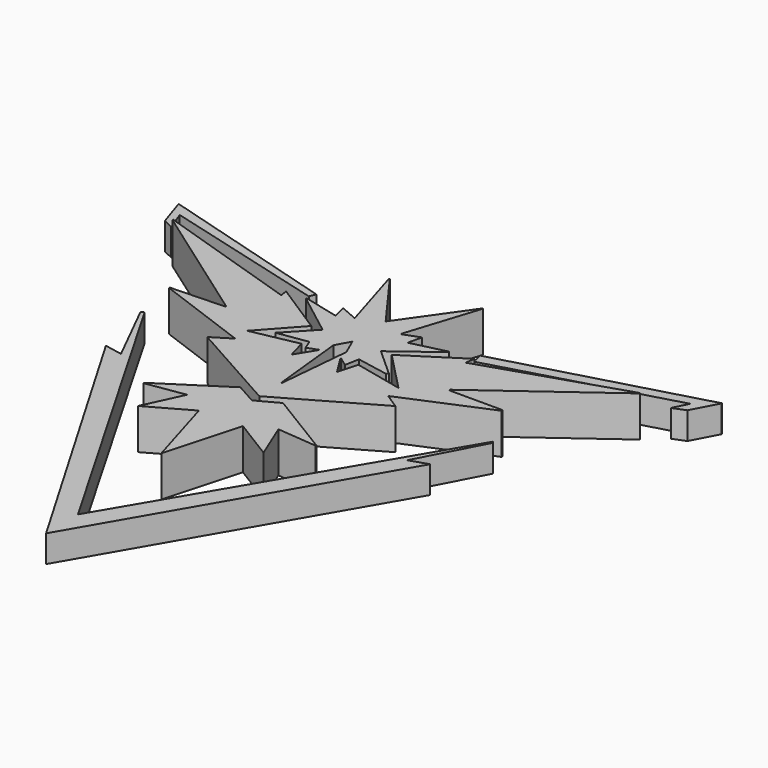
from build123d import *

# Parameters (mm, degrees)
F1_DEPTH = 3
F2_DEPTH = 2


with BuildPart() as f1:
    # F0 (on Top) → F1 (new body)
    with BuildSketch(Plane.XY):
        Polygon((7.907842, 8.538687), (16.74215, 15.010359), (16.721842, 15.059722), (6.494656, 11.734686), (6.611635, 12.434355), (2.565389, 9.835677), (5.439689, 6.85723), (1.842724, 7.665902), (1.434655, 6.197749), (0.549113, 7.611849), (0.586172, 7.647995), (1.242522, 7.178572), (1.434276, 8.224858), (3.791214, 7.782166), (3.887142, 7.918195), (1.790835, 9.804296), (4.920111, 12.153183), (4.889556, 12.213288), (2.330171, 11.593876), (2.572244, 12.628565), (1.326409, 12.166996), (3.07041, 17.613794), (3.025963, 17.628013), (-0.315749, 12.875707), (-3.445606, 17.171227), (-3.495616, 17.144395), (-1.961859, 12.075858), (-3.267673, 12.638358), (-3.019098, 11.627581), (-5.66303, 12.288217), (-5.690025, 12.235915), (-2.506646, 9.797755), (-4.388916, 7.805242), (-2.148981, 8.142507), (-1.86975, 7.429696), (-1.068826, 7.726003), (-1.966873, 6.253454), (-2.363597, 7.671869), (-5.815879, 6.978105), (-3.307755, 9.755126), (-7.16087, 12.236394), (-7.036772, 11.662706), (-17.813078, 15.145552), (-17.832896, 15.093641), (-8.684373, 8.616295), (-8.72197, 8.545996), (-12.66624, 8.40341), (-12.67619, 8.341238), (-5.746909, 5.784377), (-7.127951, 4.932837), (-0.171673, 1.036983), (6.722542, 4.976714), (5.612193, 5.69696), (11.871901, 8.342868), (11.858882, 8.444866), (7.924471, 8.444866), align=None)
        Polygon((-0.186629, 3.115098), (-0.22882, 3.107443), (-0.813041, 8.671457), (-0.240196, 9.711248), (0.306376, 8.479956), align=None, mode=Mode.SUBTRACT)
        Polygon((-4.864236, -4.278623), (-1.769502, -2.540595), (-0.12638, -8.064224), (1.417114, -2.463104), (4.419826, -4.313662), (3.264686, -1.494774), (6.204638, -1.757816), (6.21701, -1.692158), (1.426404, 1.228785), (-0.177398, 0.363535), (-1.714927, 1.228641), (-6.416431, -1.808915), (-6.390156, -1.861733), (-3.533088, -1.418473), align=None)
    extrude(amount=F1_DEPTH)


with BuildPart() as f2:
    # F0 (on Top) → F2 (new body)
    with BuildSketch(Plane.XY):
        Polygon((-6.927818, 14.052455), (-6.738956, 14.5167), (-20, 18.377043), (-19.294454, 16.233188), (-18.549654, 15.87955), (-19.086751, 17.339325), align=None)
        Polygon((18.994696, 16.571661), (20, 18.468198), (20, 18.507293), (5.414689, 14.447889), (5.576963, 13.628273), (18.618895, 17.316469), (18.072654, 16.211578), align=None)
        Polygon((10.274296, 1.619571), (12.782395, 6.403919), (12.681952, 6.512888), (-0.31924, -15.509024), (-13.074054, 6.586273), (-13.296511, 6.482892), (-10.897361, 1.681245), (-12.216222, 1.939678), (-0.274179, -18.507293), (11.62413, 2.059077), align=None)
    extrude(amount=F2_DEPTH)


solid = Compound([f1.part, f2.part])
